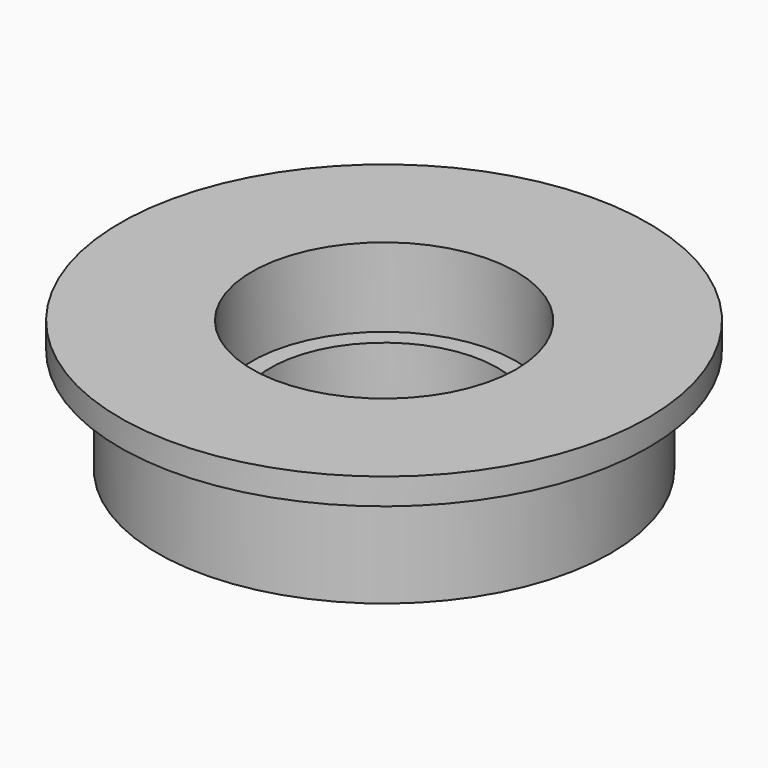
from build123d import *

# Parameters (mm, degrees)
SKETCH001_R     = 25.8969
PAD001_DEPTH    = 15
SKETCH004_R     = 30.1625
PAD002_DEPTH    = 3
SKETCH002_R     = 15.1
POCKET_DEPTH    = 9
SKETCH003_R     = 13
POCKET001_DEPTH = 15.001


with BuildPart() as part:
    # Sketch001 → Pad001 (new body)
    with BuildSketch(Plane.XY):
        Circle(SKETCH001_R)
    extrude(amount=PAD001_DEPTH)

    # Sketch004 → Pad002 (join)
    with BuildSketch(Plane.XY.offset(15)):
        Circle(SKETCH004_R)
    extrude(amount=-PAD002_DEPTH)

    # Sketch002 → Pocket (cut)
    with BuildSketch(Plane.XY.offset(15)):
        Circle(SKETCH002_R)
    extrude(amount=-POCKET_DEPTH, mode=Mode.SUBTRACT)

    # Sketch003 → Pocket001 (cut, through all)
    with BuildSketch(Plane.XY):
        Circle(SKETCH003_R)
    extrude(amount=POCKET001_DEPTH, mode=Mode.SUBTRACT)


solid = part.part
